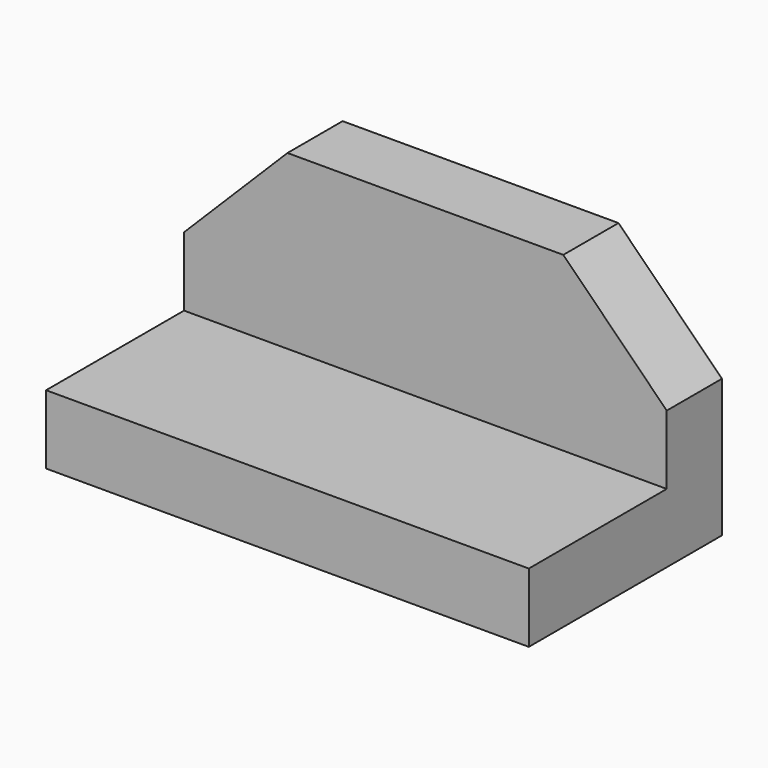
from build123d import *

# Parameters (mm, degrees)
F1_DEPTH = 35
F0_W     = 10
F0_H     = 25
F2_DEPTH = 10


with BuildPart() as f1:
    # F0 (on Front) → F1 (new body)
    with BuildSketch(Plane.XZ):
        Polygon((-36.827953, -25), (-36.827953, -35), (33.172047, -35), (33.172047, -25), (3.172047, -25), (-6.827953, -25), align=None)
    extrude(amount=F1_DEPTH)

    # F0 (on Front) → F2 (join)
    with BuildSketch(Plane.XZ):
        Polygon((-36.827953, -15), (-36.827953, -25), (-6.827953, -25), (-6.827953, 0), (-21.827953, 0), align=None)
        Polygon((3.172047, -25), (33.172047, -25), (33.172047, -15), (18.172047, 0), (3.172047, 0), align=None)
        with Locations((-1.827953, -12.5)):
            Rectangle(F0_W, F0_H)
    extrude(amount=F2_DEPTH)


solid = f1.part
